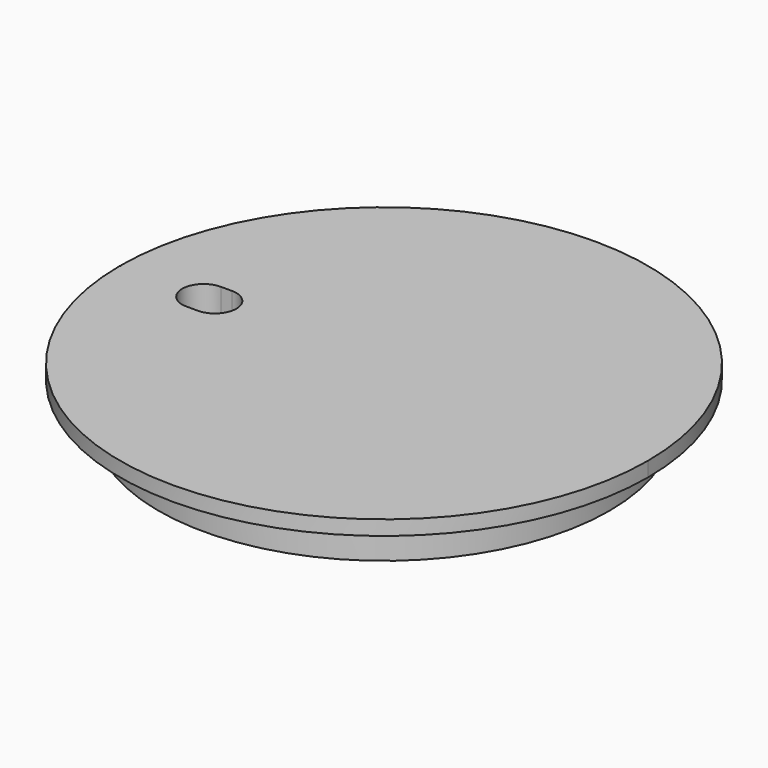
from build123d import *

# Parameters (mm, degrees)
F3_DEPTH = 6.35
F5_DEPTH = 25.4
F7_DEPTH = 3.175


with BuildPart() as f1:
    # F0 (on Front) → F1 (revolve)
    with BuildSketch(Plane.XZ):
        Polygon((59.4741, 0), (0, 0), (0, -12.7508), (50.8, -12.7508), (50.8, -5.626218), (59.4741, -3.302), align=None)
    revolve(axis=Axis((0, 0, -6.3754), (0, 0, -1)))

    # F2 (on face) → F3 (cut)
    with BuildSketch(Plane.XY):
        with BuildLine():
            Line((-40.64, -4.826), (-38.1, -4.826))
            ThreePointArc((-38.1, -4.826), (-33.274, 0), (-38.1, 4.826))
            Line((-38.1, 4.826), (-40.64, 4.826))
            ThreePointArc((-40.64, 4.826), (-45.466, 0), (-40.64, -4.826))
        make_face()
    extrude(amount=-F3_DEPTH, mode=Mode.SUBTRACT)

    # F4 (on face) → F5 (cut)
    with BuildSketch(Plane.XY):
        with BuildLine():
            ThreePointArc((-59.346964, -0.127), (-59.3471, 0), (-59.346964, 0.127))
            Line((-59.346964, 0.127), (-59.4741, 0.127))
            Line((-59.4741, 0.127), (-59.4741, -0.127))
            Line((-59.4741, -0.127), (-59.346964, -0.127))
        make_face()
    extrude(amount=-F5_DEPTH, mode=Mode.SUBTRACT)

    # F6 (on face) → F7 (cut)
    with BuildSketch(Plane(origin=(0, 0, -12.7508), x_dir=(1, 0, 0), z_dir=(0, 0, -1))):
        Polygon((3.175, -25.4), (3.175, 0), (3.175, 25.4), (-3.175, 25.4), (-3.175, 0), (-3.175, -25.4), align=None)
    extrude(amount=-F7_DEPTH, mode=Mode.SUBTRACT)


solid = f1.part
